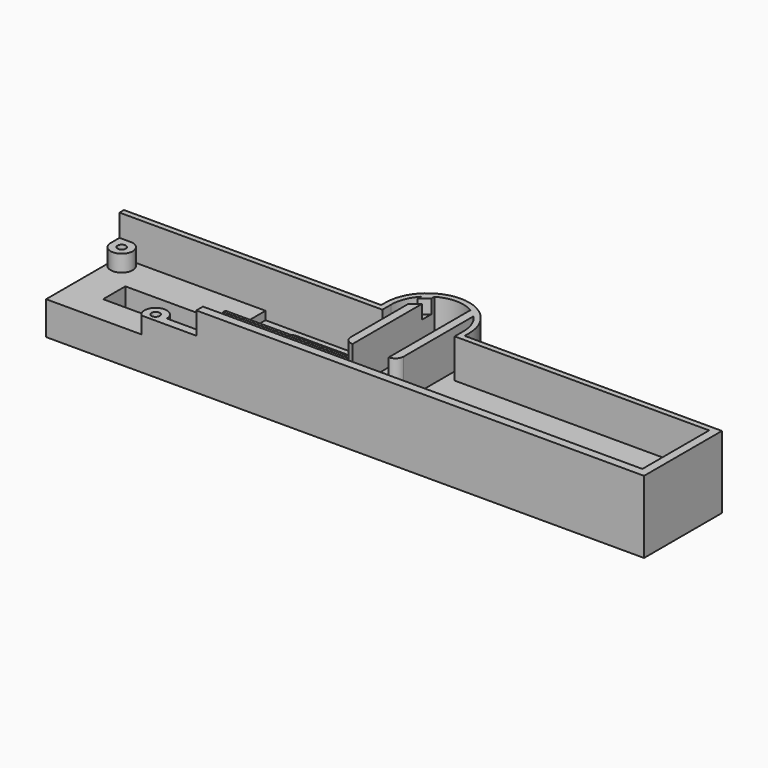
from build123d import *

# Parameters (mm, degrees)
PAD_DEPTH       = 8
PAD001_DEPTH    = 4
POCKET_DEPTH    = 5
SKETCH003_W     = 13
SKETCH003_H     = 7
PAD002_DEPTH    = 1
SKETCH004_R     = 0.5
POCKET001_DEPTH = 13.001
PAD003_DEPTH    = 14
PAD004_DEPTH    = 14
SKETCH007_R     = 1.5
PAD005_DEPTH    = 6
POCKET002_DEPTH = 5
SKETCH009_R     = 3
POCKET003_DEPTH = 15
SKETCH010_W     = 190
SKETCH010_H     = 10
POCKET004_DEPTH = 10
SKETCH011_W     = 40
SKETCH011_H     = 13
POCKET005_DEPTH = 3
PAD006_DEPTH    = 14
SKETCH014_W     = 25
SKETCH014_H     = 9
POCKET006_DEPTH = 15
SKETCH015_W     = 19.00002
SKETCH015_H     = 12
PAD007_DEPTH    = 1
SKETCH016_W     = 50
SKETCH016_H     = 9
PAD008_DEPTH    = 1
SKETCH017_W     = 3.141787
SKETCH017_H     = 1.901607
PAD009_DEPTH    = 2
SKETCH018_W     = 15
SKETCH018_H     = 8
POCKET007_DEPTH = 5
SKETCH019_W     = 4.140358
SKETCH019_H     = 3.938392
PAD010_DEPTH    = 1
FILLET_R        = 4


with BuildPart() as part:
    # Sketch → Pad (new body)
    with BuildSketch(Plane.XY):
        with BuildLine():
            Line((107.5, 0), (107.5, -35))
            Line((107.5, -35), (-107.5, -35))
            Line((-107.5, -35), (-107.5, 0))
            Line((-107.5, 0), (-0.930233, -9.956639))
            ThreePointArc((-0.930233, -9.956639), (0, -10), (0.930233, -9.956639))
            Line((0.930233, -9.956639), (107.5, 0))
        make_face()
    extrude(amount=PAD_DEPTH)

    # Sketch001 (on Face8 of Pad) → Pad001 (join)
    with BuildSketch(Plane.XY.offset(8)):
        with BuildLine():
            Line((107.5, 0), (107.5, -35))
            Line((107.5, -35), (-107.5, -35))
            Line((-107.5, -35), (-107.5, 0))
            Line((-107.5, 0), (-15, 0))
            Line((-15, 0), (-15, 2))
            ThreePointArc((15, 2), (0, 17), (-15, 2))
            Line((15, 2), (15, 0))
            Line((15, 0), (107.5, 0))
        make_face()
    extrude(amount=PAD001_DEPTH)

    # Sketch002 (on Face12 of Pad001) → Pocket (cut)
    with BuildSketch(Plane.XY.offset(12)):
        with BuildLine():
            ThreePointArc((3, -5.196152), (0, 6), (-3, -5.196152))
            Line((-3, -5.196152), (-3, -6.5))
            ThreePointArc((-3, -6.5), (0, -9.5), (3, -6.5))
            Line((3, -5.196152), (3, -6.5))
        make_face()
    extrude(amount=-POCKET_DEPTH, mode=Mode.SUBTRACT)

    # Sketch003 (on Face12 of Pocket) → Pad002 (join)
    with BuildSketch(Plane.XY.offset(12)):
        with Locations((0, 10)):
            Rectangle(SKETCH003_W, SKETCH003_H)
        with Locations((0, -20)):
            Rectangle(SKETCH003_W, SKETCH003_H)
    extrude(amount=PAD002_DEPTH)

    # Sketch004 (on Face31 of Pad002) → Pocket001 (cut, through all)
    with BuildSketch(Plane.XY.offset(13)):
        with Locations((0, 8.75)):
            Circle(SKETCH004_R)
        with Locations((0, -19.25)):
            Circle(SKETCH004_R)
    extrude(amount=-POCKET001_DEPTH, mode=Mode.SUBTRACT)

    # Sketch005 (on Face13 of Pocket001) → Pad003 (join)
    with BuildSketch(Plane.XY.offset(12)):
        with BuildLine():
            ThreePointArc((-6.5, 13.5), (-8.621333, 12.621327), (-9.50002, 10.5))
            Line((-9.50002, 10.5), (-9.50002, -20.5))
            ThreePointArc((-9.50002, -20.5), (-8.621333, -22.621327), (-6.5, -23.5))
            Line((-6.5, -23.5), (-6.5, 13.5))
        make_face()
        with BuildLine():
            ThreePointArc((6.5, -23.5), (8.62132, -22.62132), (9.5, -20.5))
            Line((9.5, 10.5), (9.5, -20.5))
            ThreePointArc((9.5, 10.5), (8.62132, 12.62132), (6.5, 13.5))
            Line((6.5, 13.5), (6.5, -23.5))
        make_face()
    extrude(amount=PAD003_DEPTH)

    # Sketch006 (on Face13 of Pad003) → Pad004 (join)
    with BuildSketch(Plane.XY.offset(12)):
        with BuildLine():
            Line((-107.5, 0), (-15, 0))
            Line((-15, 0), (-15, 2))
            ThreePointArc((15, 2), (0, 17), (-15, 2))
            Line((15, 0), (15, 2))
            Line((15, 0), (107.5, 0))
            Line((107.5, 0), (107.5, -2))
            Line((107.5, -2), (13, -2))
            Line((13, 2), (13, -2))
            ThreePointArc((13, 2), (0, 15), (-13, 2))
            Line((-13, 2), (-13, -2))
            Line((-13, -2), (-107.5, -2))
            Line((-107.5, -2), (-107.5, 0))
        make_face()
    extrude(amount=PAD004_DEPTH)

    # Sketch007 (on Face14 of Pad004) → Pad005 (join)
    with BuildSketch(Plane.XY.offset(12)):
        with BuildLine():
            ThreePointArc((-107.5, -5.999985), (-100.671578, -8.828432), (-103.5, -2))
            Line((-103.5, -2), (-107.5, -2))
            Line((-107.5, -2), (-107.5, -5.999985))
        make_face()
        with Locations((-103.5, -6)):
            Circle(SKETCH007_R, mode=Mode.SUBTRACT)
        with BuildLine():
            ThreePointArc((-67.854249, -35), (-70.5, -28), (-73.145751, -35))
            Line((-73.145751, -35), (-67.854249, -35))
        make_face()
        with Locations((-70.5, -32)):
            Circle(SKETCH007_R, mode=Mode.SUBTRACT)
    extrude(amount=PAD005_DEPTH)

    # Sketch008 (on Face60 of Pad005) → Pocket002 (cut)
    with BuildSketch(Plane.XY.offset(26)):
        Polygon((-10.113396, 8.978042), (-5.598833, 12.580972), (-5.598833, 8.367229), (-10.113396, 4.764299), align=None)
    extrude(amount=-POCKET002_DEPTH, mode=Mode.SUBTRACT)

    # Sketch009 (on Face14 of Pocket002) → Pocket003 (cut)
    with BuildSketch(Plane.XY.offset(12)):
        with Locations((-82.5, -20)):
            Circle(SKETCH009_R)
        with Locations((-49.5, -20)):
            Circle(SKETCH009_R)
        with Locations((-16.5, -20)):
            Circle(SKETCH009_R)
        with Locations((16.5, -20)):
            Circle(SKETCH009_R)
        with Locations((49.5, -20)):
            Circle(SKETCH009_R)
        with Locations((82.5, -20)):
            Circle(SKETCH009_R)
    extrude(amount=-POCKET003_DEPTH, mode=Mode.SUBTRACT)

    # Sketch010 (on Face20 of Pocket003) → Pocket004 (cut)
    with BuildSketch(Plane.XY.offset(12)):
        with Locations((0, -20)):
            Rectangle(SKETCH010_W, SKETCH010_H)
    extrude(amount=-POCKET004_DEPTH, mode=Mode.SUBTRACT)

    # Sketch011 (on Face20 of Pocket004) → Pocket005 (cut)
    with BuildSketch(Plane.XY.offset(12)):
        with Locations((-35, -8.5)):
            Rectangle(SKETCH011_W, SKETCH011_H)
    extrude(amount=-POCKET005_DEPTH, mode=Mode.SUBTRACT)

    # Sketch013 → Pad006 (join)
    with BuildSketch(Plane.XY.offset(12)):
        Polygon((104.5, -2), (107.5, -2), (107.5, -35), (-68.5, -35), (-68.5, -32), (104.5, -32), align=None)
    extrude(amount=PAD006_DEPTH)

    # Sketch014 (on Face20 of Pocket005) → Pocket006 (cut)
    with BuildSketch(Plane.XY.offset(12)):
        with Locations((-33.5, -8.5)):
            Rectangle(SKETCH014_W, SKETCH014_H)
    extrude(amount=-POCKET006_DEPTH, mode=Mode.SUBTRACT)

    # Sketch015 → Pad007 (join)
    with BuildSketch(Plane.XY.offset(12)):
        with Locations((-1e-05, -26.5)):
            Rectangle(SKETCH015_W, SKETCH015_H)
    extrude(amount=PAD007_DEPTH)

    # Sketch016 → Pad008 (join)
    with BuildSketch(Plane.XZ.offset(15)):
        with Locations((-34, 11.5)):
            Rectangle(SKETCH016_W, SKETCH016_H)
    extrude(amount=PAD008_DEPTH)

    # Sketch017 → Pad009 (join)
    with BuildSketch(Plane.XY):
        with Locations((0.426476, -19.263597)):
            Rectangle(SKETCH017_W, SKETCH017_H)
    extrude(amount=PAD009_DEPTH)

    # Sketch018 (on Face36 of Pad009) → Pocket007 (cut)
    with BuildSketch(Plane.XZ.offset(35)):
        with Locations((-61, 22)):
            Rectangle(SKETCH018_W, SKETCH018_H)
    extrude(amount=-POCKET007_DEPTH, mode=Mode.SUBTRACT)

    # Sketch019 (on Face7 of Pocket007) → Pad010 (join)
    with BuildSketch(Plane(origin=(0, 0, 8), x_dir=(1, 0, 0), z_dir=(0, 0, -1))):
        with Locations((0.364777, -8.489882)):
            Rectangle(SKETCH019_W, SKETCH019_H)
    extrude(amount=-PAD010_DEPTH)

    # Fillet
    fillet_edges = [part.edges().sort_by_distance(p)[0] for p in [
        (-46, -13, 4.5),
        (-21, -13, 4.5),
        (-21, -4, 8.5),
        (-46, -4, 8.5),
    ]]
    fillet(fillet_edges, radius=FILLET_R)


solid = part.part
